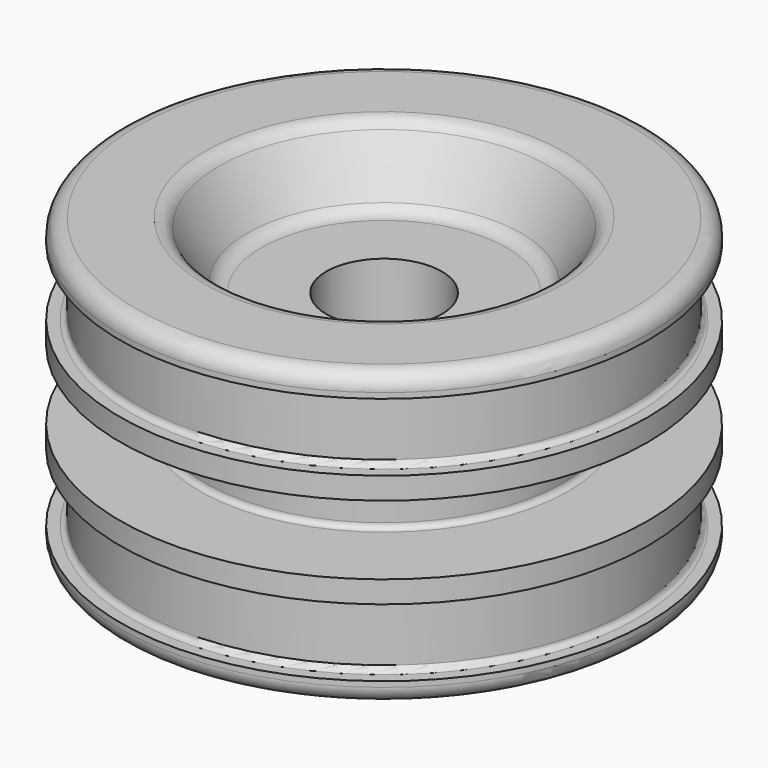
from build123d import *

# Parameters (mm, degrees)
F2_R     = 0.5
F3_R     = 1.5
F5_D     = 10.5
F5_DEPTH = 16.5
F5_TIP   = 3.1545182499


with BuildPart() as f1:
    # F0 (on Front) → F1 (revolve)
    with BuildSketch(Plane.XZ):
        Polygon((24, 13.3), (15.4641016151, 13.3), (12, 7.3), (0, 7.3), (0, -13.3), (24, -13.3), (24, -11.3), (22.5, -11.3), (22.5, -5.15), (24, -5.15), (24, -3.15), (16.25, -3.15), (16.25, 3.15), (24, 3.15), (24, 5.15), (22.5, 5.15), (22.5, 11.3), (24, 11.3), align=None)
    revolve(axis=Axis((0, 0, -3), (0, 0, 1)))

    # F2
    f2_edges = [f1.edges().sort_by_distance(p)[0] for p in [
        (-16.25, 0, -3.15),
        (-16.25, 0, 3.15),
        (-22.5, 0, 11.3),
        (-22.5, 0, 5.15),
        (-22.5, 0, -11.3),
        (-22.5, 0, -5.15),
    ]]
    fillet(f2_edges, radius=F2_R)

    # F3
    f3_edges = [f1.edges().sort_by_distance(p)[0] for p in [
        (-24, 0, 13.3),
        (-24, 0, -13.3),
        (-12, 0, 7.3),
        (-15.464102, 0, 13.3),
    ]]
    fillet(f3_edges, radius=F3_R)

    # F5
    with Locations(Plane.XY.offset(7.3)):
        with Locations((0, 0)):
            Hole(F5_D / 2, depth=F5_DEPTH)
            with Locations((0, 0, -(F5_DEPTH + F5_TIP / 2))):  # 118° drill point
                Cone(0, F5_D / 2, F5_TIP, mode=Mode.SUBTRACT)


solid = f1.part
